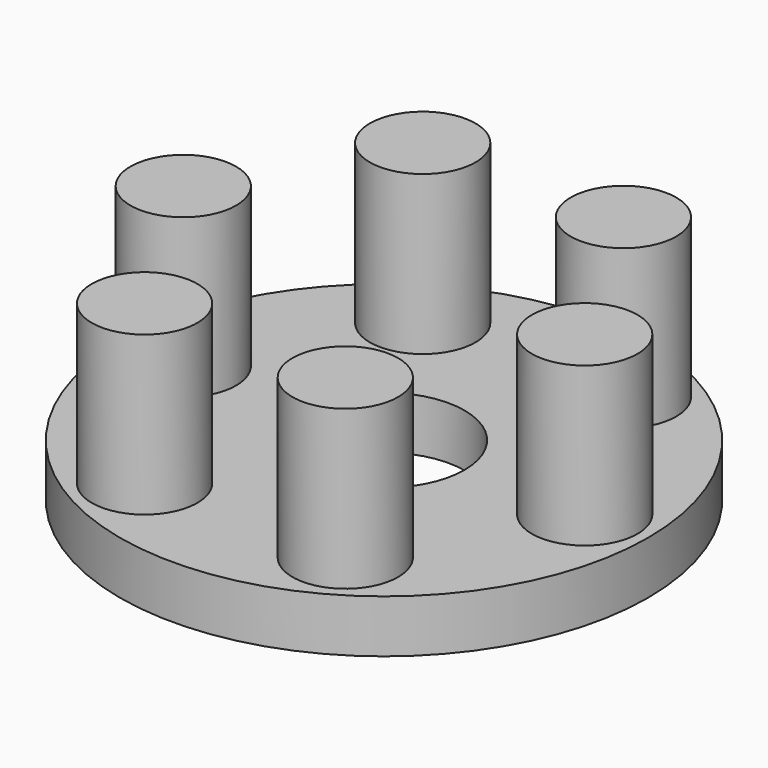
from build123d import *

# Parameters (mm, degrees)
DRIVERDISKBASESKETCH001_R   = 25
DRIVERDISKBASESKETCH001_R_2 = 7.625
PAD_DEPTH                   = 5
DRIVERSHAFTSKETCH_R         = 5
PAD004_DEPTH                = 20
DRIVERDISKPOLAR_COUNT       = 6


with BuildPart() as part:
    # DriverDiskBaseSketch001 → Pad (new body)
    with BuildSketch(Plane.XY):
        Circle(DRIVERDISKBASESKETCH001_R)
        Circle(DRIVERDISKBASESKETCH001_R_2, mode=Mode.SUBTRACT)
    extrude(amount=PAD_DEPTH)

    # DriverShaftSketch → Pad004 (join)
    with BuildSketch(Plane.XY):
        with Locations((-19, 0)):
            Circle(DRIVERSHAFTSKETCH_R)
    pad004 = extrude(amount=PAD004_DEPTH)

    # DriverDiskPolar: Pad004 ×6 about axis
    driverdiskpolar_axis = Axis((0, 0, 0), (0, 0, 1))
    for i in range(1, DRIVERDISKPOLAR_COUNT):
        add(pad004.rotate(driverdiskpolar_axis, i * 360 / DRIVERDISKPOLAR_COUNT))


with BuildPart() as part_1:
    # driverDisk placement: moved
    add(part.part.moved(Location((0, 0, 5))))


solid = part_1.part
